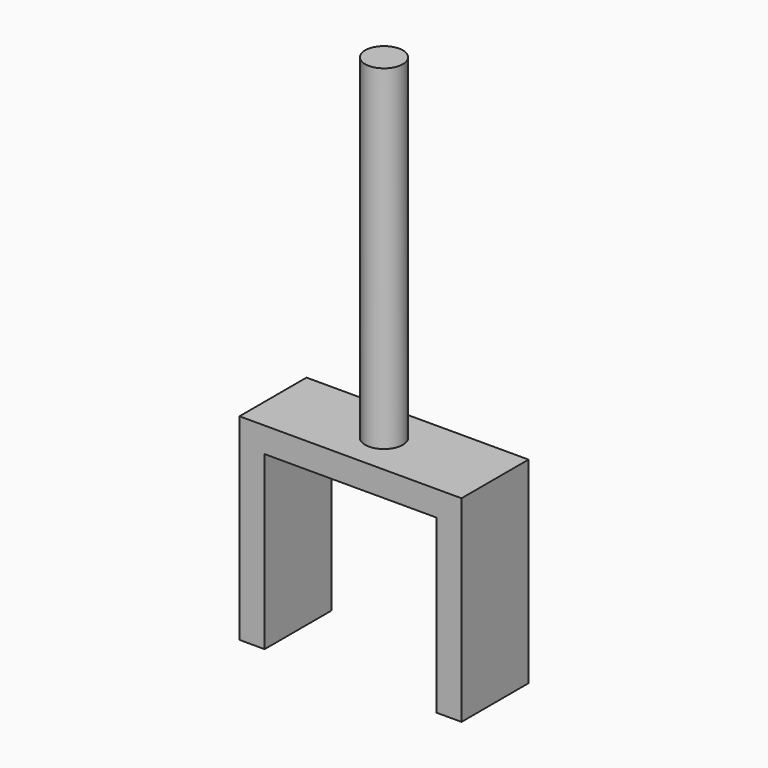
from build123d import *

# Parameters (mm, degrees)
F0_W     = 20.5
F0_H     = 3
F1_DEPTH = 10
F2_R     = 2.25
F3_DEPTH = 40


with BuildPart() as f1:
    # F0 (on Front) → F1 (new body)
    with BuildSketch(Plane.XZ):
        Polygon((-17.136792, -6.331904), (-14.136792, -6.331904), (-14.136792, 14.168096), (-14.136792, 17.168096), (-17.136792, 17.168096), align=None)
        with Locations((-3.886792, 15.668096)):
            Rectangle(F0_W, F0_H)
        Polygon((6.363208, 14.168096), (6.363208, -6.331904), (9.363208, -6.331904), (9.363208, 17.168096), (6.363208, 17.168096), align=None)
    extrude(amount=F1_DEPTH)

    # F2 (on face) → F3 (join)
    with BuildSketch(Plane.XY.offset(17.168096)):
        with Locations((-3.886792, -5)):
            Circle(F2_R)
    extrude(amount=F3_DEPTH)


solid = f1.part
